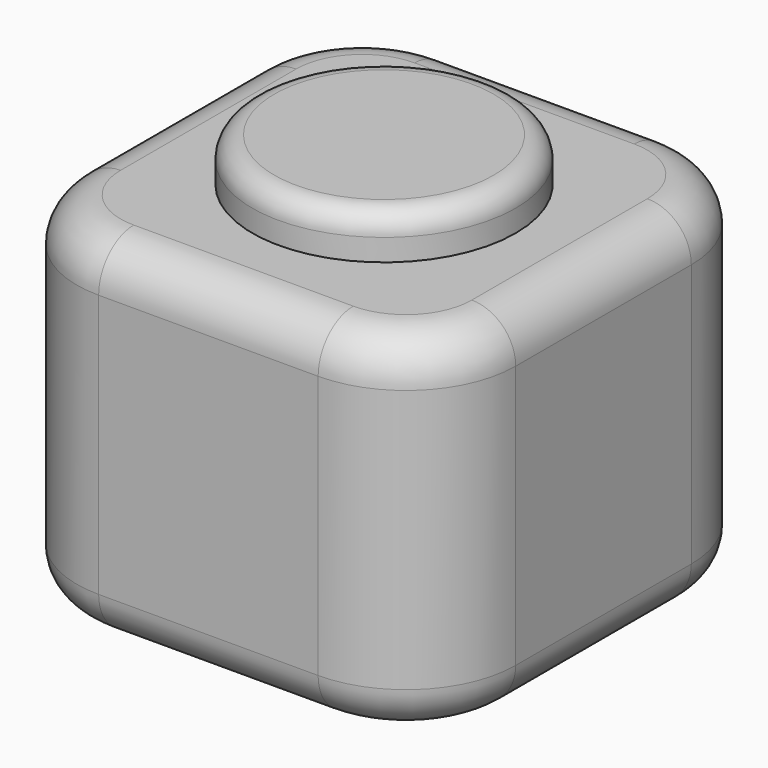
from build123d import *

# Parameters (mm, degrees)
F0_W     = 12.7
F0_H     = 12.7
F1_DEPTH = 10.16
F2_R     = 3.175
F3_R     = 1.27
F4_R     = 3.81
F5_DEPTH = 1.27
F6_R     = 0.635
F7_R     = 1.27


with BuildPart() as f1:
    # F0 (on Top) → F1 (new body)
    with BuildSketch(Plane.XY):
        with Locations((6.35, 6.35)):
            Rectangle(F0_W, F0_H)
    extrude(amount=F1_DEPTH)

    # F2
    f2_edges = [f1.edges().sort_by_distance(p)[0] for p in [
        (0, 0, 5.08),
        (12.7, 0, 5.08),
        (12.7, 12.7, 5.08),
        (0, 12.7, 5.08),
    ]]
    fillet(f2_edges, radius=F2_R)

    # F3
    f3_edges = [f1.edges().sort_by_distance(p)[0] for p in [
        (6.35, 0, 10.16),
    ]]
    fillet(f3_edges, radius=F3_R)

    # F4 (on face) → F5 (join)
    with BuildSketch(Plane.XY.offset(10.16)):
        with Locations((6.35, 6.35)):
            Circle(F4_R)
    extrude(amount=F5_DEPTH)

    # F6
    f6_edges = [f1.edges().sort_by_distance(p)[0] for p in [
        (2.54, 6.35, 11.43),
    ]]
    fillet(f6_edges, radius=F6_R)

    # F7
    f7_edges = [f1.edges().sort_by_distance(p)[0] for p in [
        (0.929936, 0.929936, 0),
    ]]
    fillet(f7_edges, radius=F7_R)


solid = f1.part
